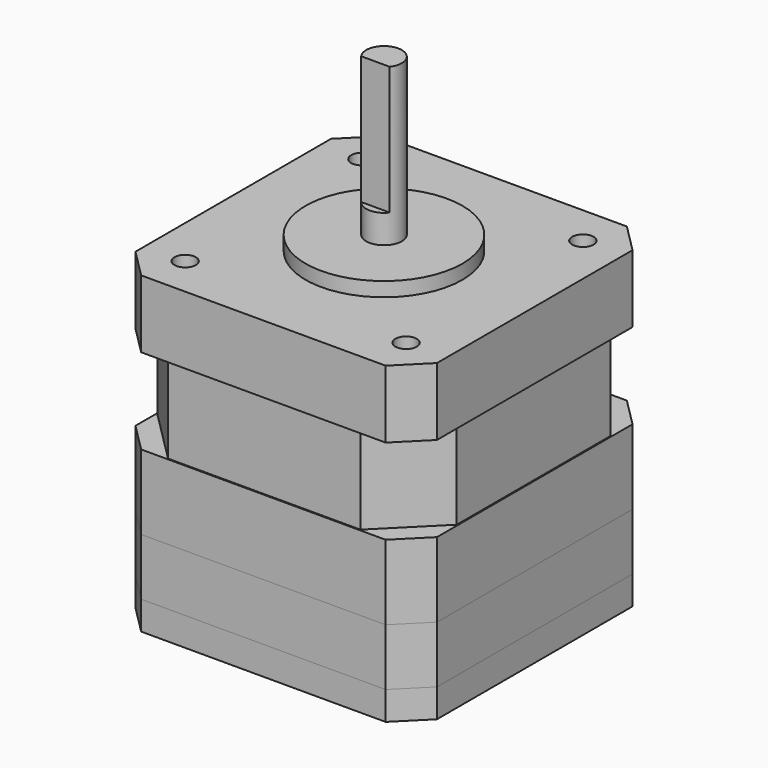
from build123d import *

# Parameters (mm, degrees)
F0_W      = 1074.42
F0_H      = 1074.42
F0_R      = 38.1
F0_R_2    = 279.4
F1_DEPTH  = 812.8
F2_DEPTH  = 863.6
F3_DEPTH  = 965.2
F4_DEPTH  = 1422.4
F5_SIZE   = 101.6
F7_W      = 1270
F7_H      = 1270
F7_W_2    = 1066.8
F7_H_2    = 1066.8
F8_DEPTH  = 152.4
F9_SIZE   = 190.5
F11_DEPTH = 203.2
F12_R     = 50.8
F13_DEPTH = 485.14
F14_DEPTH = 101.6


with BuildPart() as f1:
    # F0 (on Top) → F1 (new body)
    with BuildSketch(Plane.XY):
        Rectangle(F0_W, F0_H)
        with Locations((-393.7, -393.7)):
            Circle(F0_R, mode=Mode.SUBTRACT)
        with Locations((393.7, -393.7)):
            Circle(F0_R, mode=Mode.SUBTRACT)
        with Locations((-393.7, 393.7)):
            Circle(F0_R, mode=Mode.SUBTRACT)
        Circle(F0_R_2, mode=Mode.SUBTRACT)
        with Locations((393.7, 393.7)):
            Circle(F0_R, mode=Mode.SUBTRACT)
    extrude(amount=F1_DEPTH)

    # F0 (on Top) → F2 (join)
    with BuildSketch(Plane.XY):
        Circle(F0_R_2)
        with BuildLine():
            ThreePointArc((-50.8, -38.1), (-20.0804631421, 60.2413894262), (63.5, 0))
            ThreePointArc((63.5, 0), (60.2413894262, -20.0804631421), (50.8, -38.1))
            ThreePointArc((50.8, -38.1), (0, -63.5), (-50.8, -38.1))
        make_face(mode=Mode.SUBTRACT)
    extrude(amount=F2_DEPTH)

    # F0 (on Top) → F3 (join)
    with BuildSketch(Plane.XY):
        with BuildLine():
            ThreePointArc((50.8, -38.1), (60.2413894262, -20.0804631421), (63.5, 0))
            ThreePointArc((63.5, 0), (-20.0804631421, 60.2413894262), (-50.8, -38.1))
            Line((-50.8, -38.1), (50.8, -38.1))
        make_face()
        with BuildLine():
            Line((50.8, -38.1), (-50.8, -38.1))
            ThreePointArc((-50.8, -38.1), (0, -63.5), (50.8, -38.1))
        make_face()
    extrude(amount=F3_DEPTH)

    # F0 (on Top) → F4 (join)
    with BuildSketch(Plane.XY):
        with BuildLine():
            ThreePointArc((50.8, -38.1), (60.2413894262, -20.0804631421), (63.5, 0))
            ThreePointArc((63.5, 0), (-20.0804631421, 60.2413894262), (-50.8, -38.1))
            Line((-50.8, -38.1), (50.8, -38.1))
        make_face()
    extrude(amount=F4_DEPTH)

    # F5
    f5_edges = [f1.edges().sort_by_distance(p)[0] for p in [
        (-537.21, -537.21, 406.4),
        (537.21, -537.21, 406.4),
        (537.21, 537.21, 406.4),
        (-537.21, 537.21, 406.4),
    ]]
    chamfer(f5_edges, length=F5_SIZE)


with BuildPart() as f8:
    # F7 (on offset) → F8 (new body, symmetric)
    with BuildSketch(Plane.XY.offset(419.1)):
        Rectangle(F7_W, F7_H)
        Rectangle(F7_W_2, F7_H_2, mode=Mode.SUBTRACT)
    extrude(amount=F8_DEPTH, both=True)

    # F9
    f9_edges = [f8.edges().sort_by_distance(p)[0] for p in [
        (533.4, -533.4, 419.1),
        (533.4, 533.4, 419.1),
        (-533.4, 533.4, 419.1),
        (-533.4, -533.4, 419.1),
    ]]
    chamfer(f9_edges, length=F9_SIZE)


with BuildPart() as f1_1:
    add(f1.part)

    # F10: cut F8
    add(f8.part, mode=Mode.SUBTRACT)


with BuildPart() as f11:
    # F11 (new): a face of the model
    f11_faces = [f1_1.part.faces().sort_by_distance(p)[0] for p in [
        (0, 0, 0),
    ]]
    extrude(f11_faces, amount=F11_DEPTH)

    # F12 (on face) → F13 (cut)
    with BuildSketch(Plane(origin=(0, 0, -203.2), x_dir=(1, 0, 0), z_dir=(0, 0, -1))):
        with Locations((-190.5, 190.5)):
            Circle(F12_R)
        with Locations((190.5, 190.5)):
            Circle(F12_R)
        with Locations((190.5, -190.5)):
            Circle(F12_R)
        with Locations((-190.5, -190.5)):
            Circle(F12_R)
    extrude(amount=-F13_DEPTH, mode=Mode.SUBTRACT)


with BuildPart() as f14:
    # F14 (new): a face of the model
    f14_faces = [f11.part.faces().sort_by_distance(p)[0] for p in [
        (0, 0, -203.2),
    ]]
    extrude(f14_faces, amount=F14_DEPTH)


solid = Compound([f1_1.part, f11.part, f14.part])
